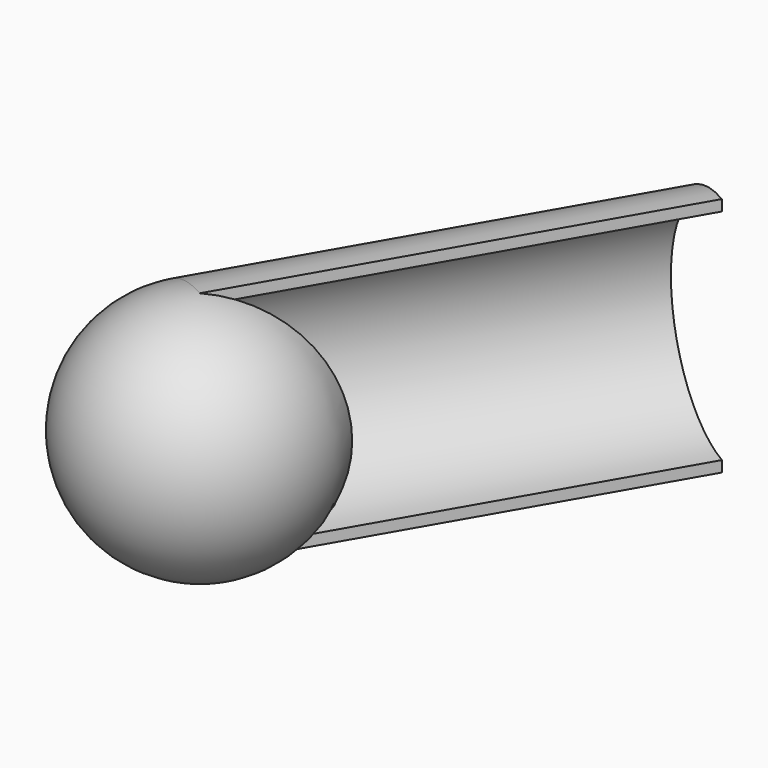
from build123d import *

# Parameters (mm, degrees)
F1_ANGLE_BACK = 120
F1_ANGLE      = 240
F3_DEPTH      = 200


with BuildPart() as f1:
    # F0 (on Right) → F1 (revolve)
    with BuildSketch(Plane.YZ, mode=Mode.PRIVATE) as f1_sk:
        with BuildLine():
            Line((0, 105), (0, 110))
            ThreePointArc((0, 110), (-55, 55), (0, 0))
            Line((0, 0), (0, 5))
            ThreePointArc((0, 5), (-50, 55), (0, 105))
        make_face()
    revolve(f1_sk.sketch.rotate(Axis((0, 0, 107.5), (0, 0, 1)), -F1_ANGLE_BACK), axis=Axis((0, 0, 107.5), (0, 0, 1)), revolution_arc=F1_ANGLE)

    # F2 (on face) → F3 (join)
    with BuildSketch(Plane(origin=(0, 0, 0), x_dir=(-0.8660254038, 0.5, 0), z_dir=(0.5, 0.8660254038, 0))):
        with BuildLine():
            ThreePointArc((0, 105), (50, 55), (0, 5))
            Line((0, 5), (0, 0))
            ThreePointArc((0, 0), (55, 55), (0, 110))
            Line((0, 110), (0, 105))
        make_face()
    extrude(amount=F3_DEPTH)


solid = f1.part
